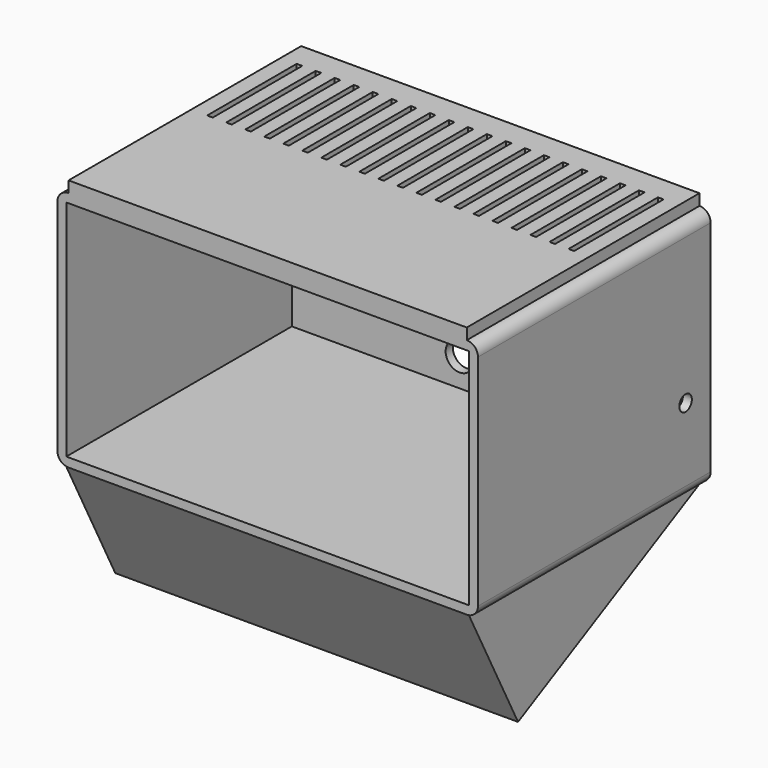
from build123d import *

# Parameters (mm, degrees)
F0_W      = 75.2
F0_H      = 43.2
F0_W_2    = 72
F0_H_2    = 40
F1_DEPTH  = 52
F2_R      = 2
F3_DEPTH  = 1.6
F5_DEPTH  = 36
F6_D      = 9
F8_D      = 2.8
F8_DEPTH  = 1.601
F9_D      = 5
F10_W     = 1
F10_H     = 20
F11_DEPTH = 25
F12_DEPTH = 2


with BuildPart() as f1:
    # F0 (on Front) → F1 (new body)
    with BuildSketch(Plane.XZ):
        Rectangle(F0_W, F0_H)
        Rectangle(F0_W_2, F0_H_2, mode=Mode.SUBTRACT)
    extrude(amount=F1_DEPTH)

    # F2
    f2_edges = [f1.edges().sort_by_distance(p)[0] for p in [
        (37.6, -26, 21.6),
        (-37.6, -26, 21.6),
        (-37.6, -26, -21.6),
        (37.6, -26, -21.6),
    ]]
    fillet(f2_edges, radius=F2_R)

    # F0 (on Front) → F3 (join)
    with BuildSketch(Plane.XZ):
        Rectangle(F0_W_2, F0_H_2)
    extrude(amount=F3_DEPTH)

    # F4 (on Right) → F5 (join, symmetric)
    with BuildSketch(Plane.YZ):
        Polygon((0, -21.6), (-52, -21.6), (-41.0421315348, -42.8069394041), align=None)
    extrude(amount=F5_DEPTH, both=True)

    # F6 (through all)
    with Locations(Plane(origin=(0, 0, 0), x_dir=(1, 0, 0), z_dir=(0, 1, 0))):
        with Locations((30.4, 6)):
            Hole(F6_D / 2)

    # F8 (through all, one way)
    with BuildSketch(Plane(origin=(36, 0, 0), x_dir=(0, -1, 0), z_dir=(-1, 0, 0))):
        with Locations((5.6, -6.5)):
            Circle(F8_D / 2)
    extrude(amount=-F8_DEPTH, mode=Mode.SUBTRACT)

    # F9 (through all)
    with Locations(Plane(origin=(0, 0, 0), x_dir=(1, 0, 0), z_dir=(0, 1, 0))):
        with Locations((-6, 15)):
            Hole(F9_D / 2)

    # F10 (on face) → F11 (cut)
    with BuildSketch(Plane.XY.offset(21.6)):
        with Locations((-32.2436588705, -14.5910207555)):
            Rectangle(F10_W, F10_H)
        with Locations((-28.8436588705, -14.5910207555)):
            Rectangle(F10_W, F10_H)
        with Locations((-25.4436588705, -14.5910207555)):
            Rectangle(F10_W, F10_H)
        with Locations((-22.0436588705, -14.5910207555)):
            Rectangle(F10_W, F10_H)
        with Locations((-18.6436588705, -14.5910207555)):
            Rectangle(F10_W, F10_H)
        with Locations((-15.2436588705, -14.5910207555)):
            Rectangle(F10_W, F10_H)
        with Locations((-11.8436588705, -14.5910207555)):
            Rectangle(F10_W, F10_H)
        with Locations((-8.4436588705, -14.5910207555)):
            Rectangle(F10_W, F10_H)
        with Locations((-5.0436588705, -14.5910207555)):
            Rectangle(F10_W, F10_H)
        with Locations((1.7563411295, -14.5910207555)):
            Rectangle(F10_W, F10_H)
        with Locations((5.1563411295, -14.5910207555)):
            Rectangle(F10_W, F10_H)
        with Locations((-1.6436588705, -14.5910207555)):
            Rectangle(F10_W, F10_H)
        with Locations((8.5563411295, -14.5910207555)):
            Rectangle(F10_W, F10_H)
        with Locations((11.9563411295, -14.5910207555)):
            Rectangle(F10_W, F10_H)
        with Locations((15.3563411295, -14.5910207555)):
            Rectangle(F10_W, F10_H)
        with Locations((18.7563411295, -14.5910207555)):
            Rectangle(F10_W, F10_H)
        with Locations((22.1563411295, -14.5910207555)):
            Rectangle(F10_W, F10_H)
        with Locations((25.5563411295, -14.5910207555)):
            Rectangle(F10_W, F10_H)
        with Locations((28.9563411295, -14.5910207555)):
            Rectangle(F10_W, F10_H)
        with Locations((32.3563411295, -14.5910207555)):
            Rectangle(F10_W, F10_H)
    extrude(amount=-F11_DEPTH, mode=Mode.SUBTRACT)

    # F12 (add): a face of the model
    f12_faces = [f1.faces().sort_by_distance(p)[0] for p in [
        (-0.0068242647, -27.3819015558, 21.6),
    ]]
    extrude(f12_faces, amount=F12_DEPTH)


solid = f1.part
